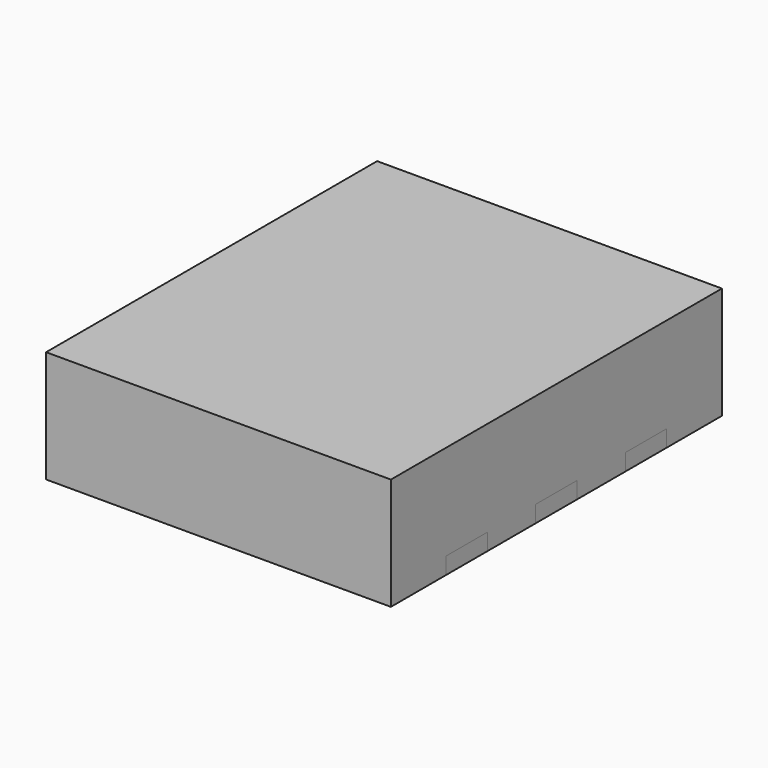
from build123d import *

# Parameters (mm, degrees)
F0_W     = 0.75
F0_H     = 0.3
F1_DEPTH = 0.65
F2_DEPTH = 0.097
F4_W     = 0.802
F4_H     = 0.716
F5_DEPTH = 0.02


with BuildPart() as f1:
    # F0 (on Top) → F1 (new body)
    with BuildSketch(Plane.XY):
        with BuildLine():
            Line((-2, 0), (0, 0))
            Line((0, 0), (0, 0.4))
            Line((0, 0.4), (-0.6, 0.4))
            ThreePointArc((-0.6, 0.4), (-0.7060660172, 0.4439339828), (-0.75, 0.55))
            ThreePointArc((-0.75, 0.55), (-0.7060660172, 0.6560660172), (-0.6, 0.7))
            Line((-0.6, 0.7), (0, 0.7))
            Line((0, 0.7), (0, 1.05))
            Line((0, 1.05), (-0.6, 1.05))
            ThreePointArc((-0.6, 1.05), (-0.7060660172, 1.0939339828), (-0.75, 1.2))
            ThreePointArc((-0.75, 1.2), (-0.7060660172, 1.3060660172), (-0.6, 1.35))
            Line((-0.6, 1.35), (0, 1.35))
            Line((0, 1.35), (0, 1.7))
            Line((0, 1.7), (-0.6, 1.7))
            ThreePointArc((-0.6, 1.7), (-0.7060660172, 1.7439339828), (-0.75, 1.85))
            ThreePointArc((-0.75, 1.85), (-0.7060660172, 1.9560660172), (-0.6, 2))
            Line((-0.6, 2), (0, 2))
            Line((0, 2), (0, 2.4))
            Line((0, 2.4), (-2, 2.4))
            Line((-2, 2.4), (-2, 2))
            Line((-2, 2), (-1.25, 2))
            Line((-1.25, 2), (-1.25, 1.7))
            Line((-1.25, 1.7), (-2, 1.7))
            Line((-2, 1.7), (-2, 1.35))
            Line((-2, 1.35), (-1.4, 1.35))
            ThreePointArc((-1.4, 1.35), (-1.2939339828, 1.3060660172), (-1.25, 1.2))
            ThreePointArc((-1.25, 1.2), (-1.2939339828, 1.0939339828), (-1.4, 1.05))
            Line((-1.4, 1.05), (-2, 1.05))
            Line((-2, 1.05), (-2, 0.7))
            Line((-2, 0.7), (-1.4, 0.7))
            ThreePointArc((-1.4, 0.7), (-1.2939339828, 0.6560660172), (-1.25, 0.55))
            ThreePointArc((-1.25, 0.55), (-1.2939339828, 0.4439339828), (-1.4, 0.4))
            Line((-1.4, 0.4), (-2, 0.4))
            Line((-2, 0.4), (-2, 0))
        make_face()
        with Locations((-1.625, 1.85)):
            Rectangle(F0_W, F0_H)
        with BuildLine():
            Line((-2, 1.35), (-2, 1.05))
            Line((-2, 1.05), (-1.4, 1.05))
            ThreePointArc((-1.4, 1.05), (-1.2939339828, 1.0939339828), (-1.25, 1.2))
            ThreePointArc((-1.25, 1.2), (-1.2939339828, 1.3060660172), (-1.4, 1.35))
            Line((-1.4, 1.35), (-2, 1.35))
        make_face()
        with BuildLine():
            Line((-2, 0.7), (-2, 0.4))
            Line((-2, 0.4), (-1.4, 0.4))
            ThreePointArc((-1.4, 0.4), (-1.2939339828, 0.4439339828), (-1.25, 0.55))
            ThreePointArc((-1.25, 0.55), (-1.2939339828, 0.6560660172), (-1.4, 0.7))
            Line((-1.4, 0.7), (-2, 0.7))
        make_face()
        with BuildLine():
            Line((-0.6, 0.4), (0, 0.4))
            Line((0, 0.4), (0, 0.7))
            Line((0, 0.7), (-0.6, 0.7))
            ThreePointArc((-0.6, 0.7), (-0.7060660172, 0.6560660172), (-0.75, 0.55))
            ThreePointArc((-0.75, 0.55), (-0.7060660172, 0.4439339828), (-0.6, 0.4))
        make_face()
        with BuildLine():
            Line((-0.6, 1.05), (0, 1.05))
            Line((0, 1.05), (0, 1.35))
            Line((0, 1.35), (-0.6, 1.35))
            ThreePointArc((-0.6, 1.35), (-0.7060660172, 1.3060660172), (-0.75, 1.2))
            ThreePointArc((-0.75, 1.2), (-0.7060660172, 1.0939339828), (-0.6, 1.05))
        make_face()
        with BuildLine():
            Line((-0.6, 1.7), (0, 1.7))
            Line((0, 1.7), (0, 2))
            Line((0, 2), (-0.6, 2))
            ThreePointArc((-0.6, 2), (-0.7060660172, 1.9560660172), (-0.75, 1.85))
            ThreePointArc((-0.75, 1.85), (-0.7060660172, 1.7439339828), (-0.6, 1.7))
        make_face()
    extrude(amount=F1_DEPTH)


with BuildPart() as f2:
    # F0 (on Top) → F2 (new body)
    with BuildSketch(Plane.XY):
        with BuildLine():
            Line((-0.6, 1.7), (0, 1.7))
            Line((0, 1.7), (0, 2))
            Line((0, 2), (-0.6, 2))
            ThreePointArc((-0.6, 2), (-0.7060660172, 1.9560660172), (-0.75, 1.85))
            ThreePointArc((-0.75, 1.85), (-0.7060660172, 1.7439339828), (-0.6, 1.7))
        make_face()
    extrude(amount=F2_DEPTH)


with BuildPart() as f2b:
    # F0 (on Top) → F2, piece 2 (new body)
    with BuildSketch(Plane.XY):
        with Locations((-1.625, 1.85)):
            Rectangle(F0_W, F0_H)
    extrude(amount=F2_DEPTH)


with BuildPart() as f2c:
    # F0 (on Top) → F2, piece 3 (new body)
    with BuildSketch(Plane.XY):
        with BuildLine():
            Line((-0.6, 1.05), (0, 1.05))
            Line((0, 1.05), (0, 1.35))
            Line((0, 1.35), (-0.6, 1.35))
            ThreePointArc((-0.6, 1.35), (-0.7060660172, 1.3060660172), (-0.75, 1.2))
            ThreePointArc((-0.75, 1.2), (-0.7060660172, 1.0939339828), (-0.6, 1.05))
        make_face()
    extrude(amount=F2_DEPTH)


with BuildPart() as f2d:
    # F0 (on Top) → F2, piece 4 (new body)
    with BuildSketch(Plane.XY):
        with BuildLine():
            Line((-0.6, 0.4), (0, 0.4))
            Line((0, 0.4), (0, 0.7))
            Line((0, 0.7), (-0.6, 0.7))
            ThreePointArc((-0.6, 0.7), (-0.7060660172, 0.6560660172), (-0.75, 0.55))
            ThreePointArc((-0.75, 0.55), (-0.7060660172, 0.4439339828), (-0.6, 0.4))
        make_face()
    extrude(amount=F2_DEPTH)


with BuildPart() as f2e:
    # F0 (on Top) → F2, piece 5 (new body)
    with BuildSketch(Plane.XY):
        with BuildLine():
            Line((-2, 1.35), (-2, 1.05))
            Line((-2, 1.05), (-1.4, 1.05))
            ThreePointArc((-1.4, 1.05), (-1.2939339828, 1.0939339828), (-1.25, 1.2))
            ThreePointArc((-1.25, 1.2), (-1.2939339828, 1.3060660172), (-1.4, 1.35))
            Line((-1.4, 1.35), (-2, 1.35))
        make_face()
    extrude(amount=F2_DEPTH)


with BuildPart() as f2f:
    # F0 (on Top) → F2, piece 6 (new body)
    with BuildSketch(Plane.XY):
        with BuildLine():
            Line((-2, 0.7), (-2, 0.4))
            Line((-2, 0.4), (-1.4, 0.4))
            ThreePointArc((-1.4, 0.4), (-1.2939339828, 0.4439339828), (-1.25, 0.55))
            ThreePointArc((-1.25, 0.55), (-1.2939339828, 0.6560660172), (-1.4, 0.7))
            Line((-1.4, 0.7), (-2, 0.7))
        make_face()
    extrude(amount=F2_DEPTH)


with BuildPart() as f5:
    # F4 (on offset) → F5 (new body)
    with BuildSketch(Plane.XY.offset(0.355)):
        with Locations((-1, 0.842)):
            Rectangle(F4_W, F4_H)
    extrude(amount=F5_DEPTH)


solid = Compound([f1.part, f2.part, f2b.part, f2c.part, f2d.part, f2e.part, f2f.part, f5.part])
